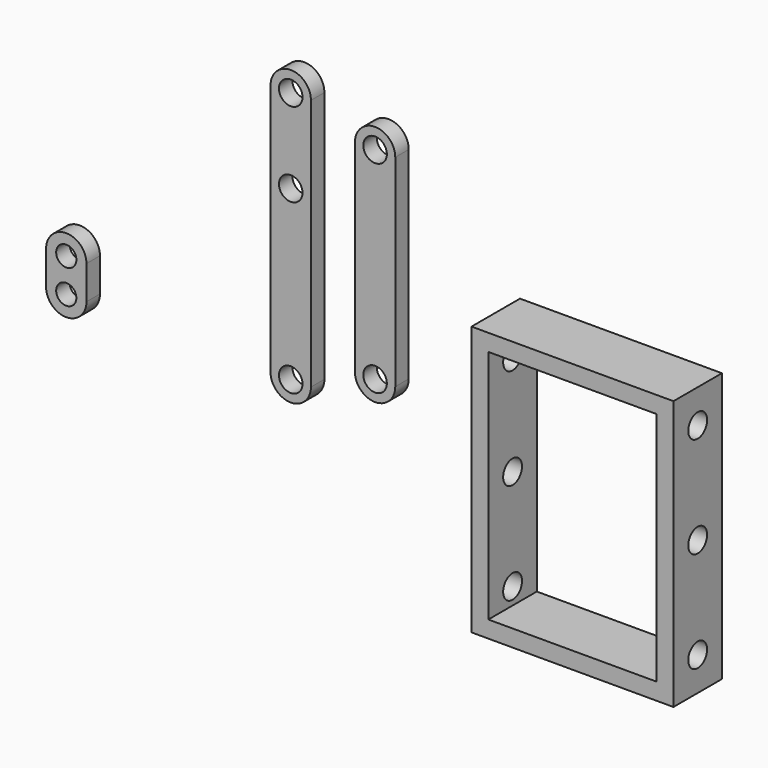
from build123d import *

# Parameters (mm, degrees)
F0_W     = 60
F0_H     = 80
F0_W_2   = 50
F0_H_2   = 70
F1_DEPTH = 18
F2_R     = 3.5
F3_DEPTH = 60.001
F4_R     = 3.5
F5_DEPTH = 5
F6_R     = 3.5
F7_DEPTH = 5
F8_R     = 3
F9_DEPTH = 5


with BuildPart() as f1:
    # F0 (on Front) → F1 (new body)
    with BuildSketch(Plane.XZ):
        Rectangle(F0_W, F0_H)
        Rectangle(F0_W_2, F0_H_2, mode=Mode.SUBTRACT)
    extrude(amount=F1_DEPTH)

    # F2 (on face) → F3 (cut, through all)
    with BuildSketch(Plane.YZ.offset(30)):
        with Locations((-9, -30)):
            Circle(F2_R)
        with Locations((-9, 0)):
            Circle(F2_R)
        with Locations((-9, 30)):
            Circle(F2_R)
    extrude(amount=-F3_DEPTH, mode=Mode.SUBTRACT)


with BuildPart() as f5:
    # F4 (on Front) → F5 (new body)
    with BuildSketch(Plane.XZ):
        with BuildLine():
            ThreePointArc((-100.116094, 0), (-94.116094, -6), (-88.116094, 0))
            Line((-88.116094, 0), (-88.116094, 75))
            ThreePointArc((-88.116094, 75), (-94.116094, 81), (-100.116094, 75))
            Line((-100.116094, 75), (-100.116094, 0))
        make_face()
        with Locations((-94.116094, 0)):
            Circle(F4_R, mode=Mode.SUBTRACT)
        with Locations((-94.116094, 50)):
            Circle(F4_R, mode=Mode.SUBTRACT)
        with Locations((-94.116094, 75)):
            Circle(F4_R, mode=Mode.SUBTRACT)
    extrude(amount=F5_DEPTH)


with BuildPart() as f7:
    # F6 (on Front) → F7 (new body)
    with BuildSketch(Plane.XZ):
        with BuildLine():
            ThreePointArc((-75.056734, 8.253948), (-69.056734, 2.253948), (-63.056734, 8.253948))
            Line((-63.056734, 8.253948), (-63.056734, 68.253948))
            ThreePointArc((-63.056734, 68.253948), (-69.056734, 74.253948), (-75.056734, 68.253948))
            Line((-75.056734, 68.253948), (-75.056734, 8.253948))
        make_face()
        with Locations((-69.056734, 8.253948)):
            Circle(F6_R, mode=Mode.SUBTRACT)
        with Locations((-69.056734, 68.253948)):
            Circle(F6_R, mode=Mode.SUBTRACT)
    extrude(amount=F7_DEPTH)


with BuildPart() as f9:
    # F8 (on Front) → F9 (new body)
    with BuildSketch(Plane.XZ):
        with BuildLine():
            Line((-166.809368, 10.617104), (-166.809368, 0.617104))
            ThreePointArc((-166.809368, 0.617104), (-160.809368, -5.382896), (-154.809368, 0.617104))
            Line((-154.809368, 0.617104), (-154.809368, 10.617104))
            ThreePointArc((-154.809368, 10.617104), (-160.809368, 16.617104), (-166.809368, 10.617104))
        make_face()
        with Locations((-160.809368, 0.617104)):
            Circle(F8_R, mode=Mode.SUBTRACT)
        with Locations((-160.809368, 10.617104)):
            Circle(F8_R, mode=Mode.SUBTRACT)
    extrude(amount=F9_DEPTH)


solid = Compound([f1.part, f5.part, f7.part, f9.part])
